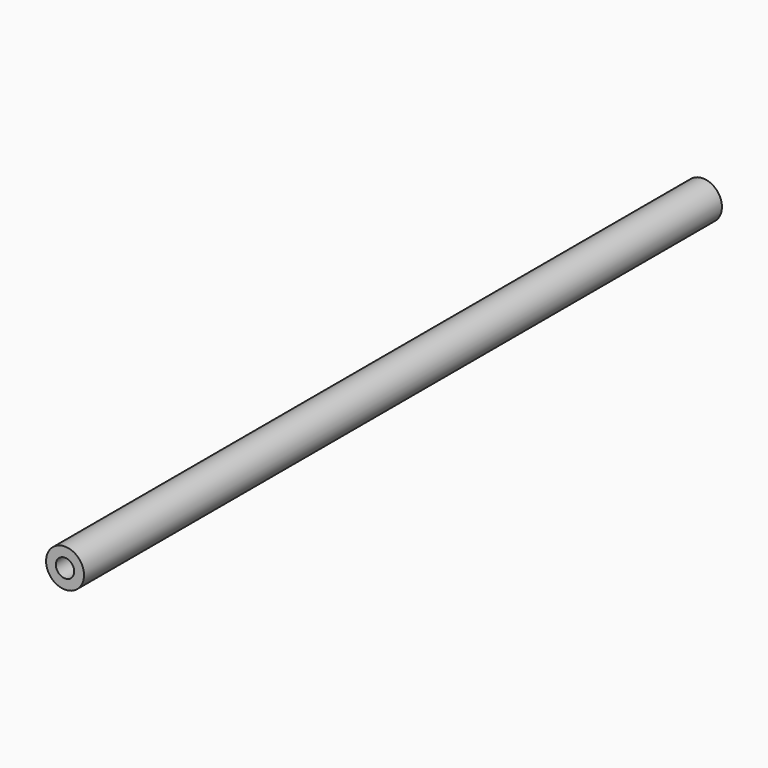
from build123d import *

# Parameters (mm, degrees)
F0_R     = 15
F1_DEPTH = 315
F2_R     = 7.25
F3_DEPTH = 40
F4_R     = 7.25
F5_DEPTH = 40


with BuildPart() as f1:
    # F0 (on Front) → F1 (new body, symmetric)
    with BuildSketch(Plane.XZ):
        Circle(F0_R)
    extrude(amount=F1_DEPTH, both=True)

    # F2 (on face) → F3 (cut)
    with BuildSketch(Plane.XZ.offset(315)):
        Circle(F2_R)
    extrude(amount=-F3_DEPTH, mode=Mode.SUBTRACT)

    # F4 (on face) → F5 (cut)
    with BuildSketch(Plane(origin=(0, 315, 0), x_dir=(-1, 0, 0), z_dir=(0, 1, 0))):
        Circle(F4_R)
    extrude(amount=-F5_DEPTH, mode=Mode.SUBTRACT)


solid = f1.part
